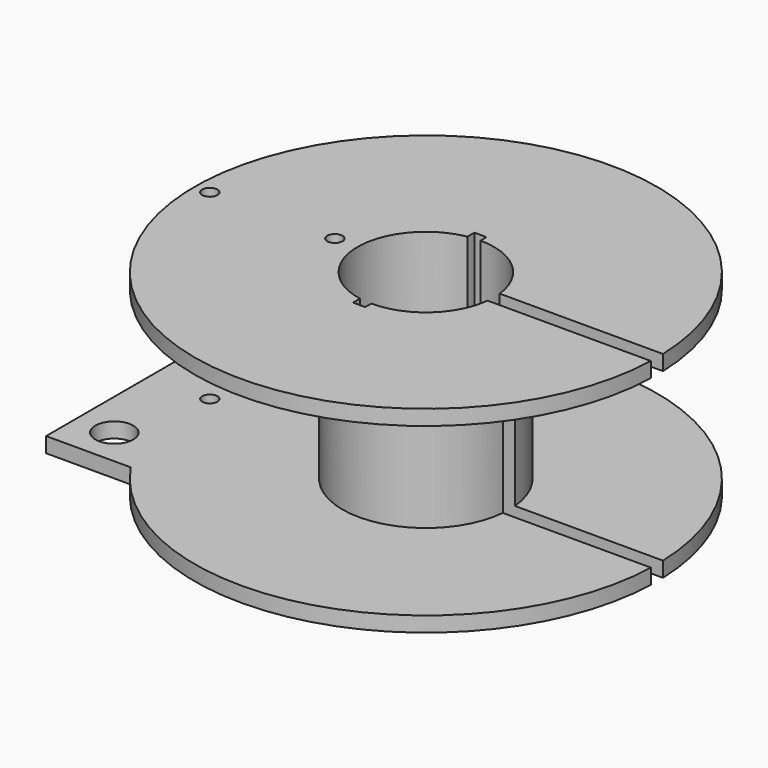
from build123d import *

# Parameters (mm, degrees)
CYLINDER015_R     = 1
CYLINDER015_DEPTH = 26
CYLINDER016_R     = 1
CYLINDER016_DEPTH = 26
BOX007_W          = 30
BOX007_H          = 2
BOX007_DEPTH      = 26
CYLINDER013_R     = 2.5
CYLINDER013_DEPTH = 10
CYLINDER014_R     = 2.5
CYLINDER014_DEPTH = 10
BOX005_W          = 15
BOX005_H          = 34
BOX005_DEPTH      = 2
BOX004_W          = 1.6
BOX004_H          = 20
BOX004_DEPTH      = 26
CYLINDER005_R     = 11
CYLINDER005_DEPTH = 22
CYLINDER004_R     = 30.5
CYLINDER004_DEPTH = 22
CYLINDER003_R     = 9
CYLINDER003_DEPTH = 26
CYLINDER002_R     = 30.5
CYLINDER002_DEPTH = 26


with BuildPart() as cylinder015:
    # Cylinder015 → Cylinder015 (new body)
    with BuildSketch(Plane(origin=(39.5, 17, 0), x_dir=(1, 0, 0), z_dir=(0, 0, 1))):
        Circle(CYLINDER015_R)
    extrude(amount=CYLINDER015_DEPTH)


with BuildPart() as wireholes:
    # Cylinder016 → Cylinder016 (new body)
    with BuildSketch(Plane(origin=(23, 17, 0), x_dir=(1, 0, 0), z_dir=(0, 0, 1))):
        Circle(CYLINDER016_R)
    extrude(amount=CYLINDER016_DEPTH)

    # Fusion005: union Cylinder015
    add(cylinder015.part)


with BuildPart() as cube007:
    # Box007 → Box007 (new body)
    with BuildSketch(Plane(origin=(53, 16, 0), x_dir=(1, 0, 0), z_dir=(0, 0, 1))):
        with Locations((15, 1)):
            Rectangle(BOX007_W, BOX007_H)
    extrude(amount=BOX007_DEPTH)


with BuildPart() as cylinder013:
    # Cylinder013 → Cylinder013 (new body)
    with BuildSketch(Plane(origin=(20, 5, 0), x_dir=(1, 0, 0), z_dir=(0, 0, 1))):
        Circle(CYLINDER013_R)
    extrude(amount=CYLINDER013_DEPTH)


with BuildPart() as obj1:
    # Cylinder014 → Cylinder014 (new body)
    with BuildSketch(Plane(origin=(20, 29, 0), x_dir=(1, 0, 0), z_dir=(0, 0, 1))):
        Circle(CYLINDER014_R)
    extrude(amount=CYLINDER014_DEPTH)

    # Fusion003: union Cylinder013
    add(cylinder013.part)


with BuildPart() as cut010:
    # Box005 → Box005 (new body)
    with BuildSketch(Plane(origin=(15, 0, 0), x_dir=(1, 0, 0), z_dir=(0, 0, 1))):
        with Locations((7.5, 17)):
            Rectangle(BOX005_W, BOX005_H)
    extrude(amount=BOX005_DEPTH)

    # Cut010: cut obj1
    add(obj1.part, mode=Mode.SUBTRACT)


with BuildPart() as cube004:
    # Box004 → Box004 (new body)
    with BuildSketch(Plane(origin=(49.9, 7, 0), x_dir=(1, 0, 0), z_dir=(0, 0, 1))):
        with Locations((0.8, 10)):
            Rectangle(BOX004_W, BOX004_H)
    extrude(amount=BOX004_DEPTH)


with BuildPart() as cylinder005:
    # Cylinder005 → Cylinder005 (new body)
    with BuildSketch(Plane.XY):
        Circle(CYLINDER005_R)
    extrude(amount=CYLINDER005_DEPTH)


with BuildPart() as obj2:
    # Cylinder004 → Cylinder004 (new body)
    with BuildSketch(Plane.XY):
        Circle(CYLINDER004_R)
    extrude(amount=CYLINDER004_DEPTH)

    # Cut004: cut Cylinder005
    add(cylinder005.part, mode=Mode.SUBTRACT)


with BuildPart() as obj2_1:
    # Cut004 placement: moved
    add(obj2.part.moved(Location((51.5, 17, 2))))


with BuildPart() as cylinder003:
    # Cylinder003 → Cylinder003 (new body)
    with BuildSketch(Plane.XY):
        Circle(CYLINDER003_R)
    extrude(amount=CYLINDER003_DEPTH)


with BuildPart() as coilholder:
    # Cylinder002 → Cylinder002 (new body)
    with BuildSketch(Plane.XY):
        Circle(CYLINDER002_R)
    extrude(amount=CYLINDER002_DEPTH)

    # Cut002: cut Cylinder003
    add(cylinder003.part, mode=Mode.SUBTRACT)


with BuildPart() as coilholder_1:
    # Cut002 placement: moved
    add(coilholder.part.moved(Location((51.5, 17, 0))))

    # Cut005: cut obj2
    add(obj2_1.part, mode=Mode.SUBTRACT)

    # Cut007: cut Cube004
    add(cube004.part, mode=Mode.SUBTRACT)

    # Fusion004: union Cut010
    add(cut010.part)

    # Cut012: cut Cube007
    add(cube007.part, mode=Mode.SUBTRACT)

    # Cut013: cut WireHoles
    add(wireholes.part, mode=Mode.SUBTRACT)


solid = coilholder_1.part
